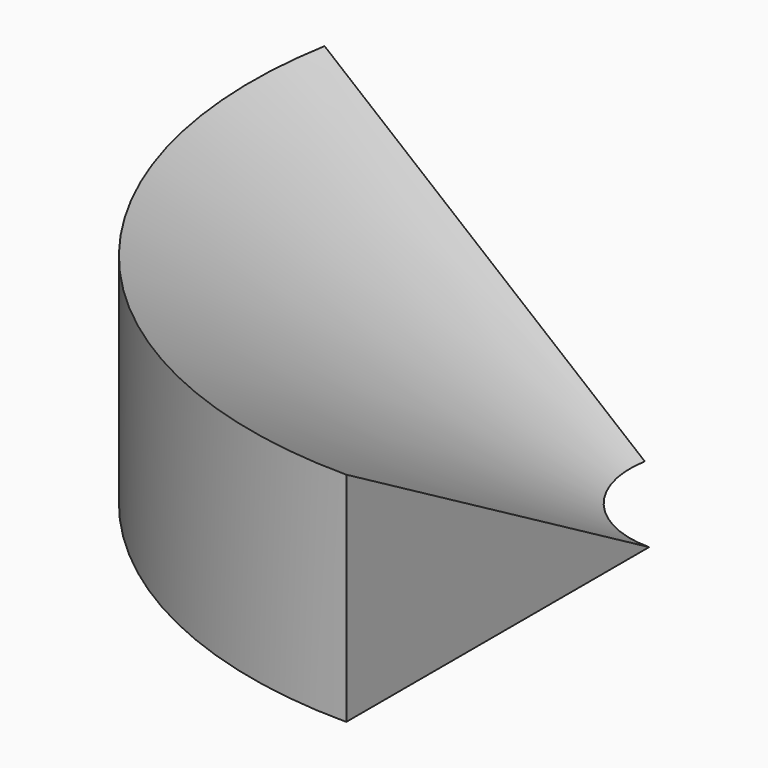
from build123d import *

# Parameters (mm, degrees)
F3_DEPTH = 14.606
F5_DEPTH = 14.606


with BuildPart() as f1:
    # F0 (on Right) → F1 (revolve)
    with BuildSketch(Plane.YZ):
        Polygon((25.4, 14.605), (0, 0), (25.4, 0), align=None)
    revolve(axis=Axis((0, -6.35, 8.989026), (0, 0, 1)))

    # F2 (on Top) → F3 (cut, through all)
    with BuildSketch(Plane.XY):
        Polygon((0, 31.75), (0, -6.35), (0, -41.735239), (38.1, -41.735239), (38.1, -6.35), (38.1, 31.75), align=None)
        Polygon((-6.718058, 31.75), (0, -6.35), (0, 31.75), align=None)
    extrude(amount=F3_DEPTH, mode=Mode.SUBTRACT)

    # F4 (on Top) → F5 (cut, through all)
    with BuildSketch(Plane.XY):
        Polygon((0, -6.35), (0, 27.06758), (-38.1, 27.06758), (-38.1, 0.368058), align=None)
    extrude(amount=F5_DEPTH, mode=Mode.SUBTRACT)


solid = f1.part
